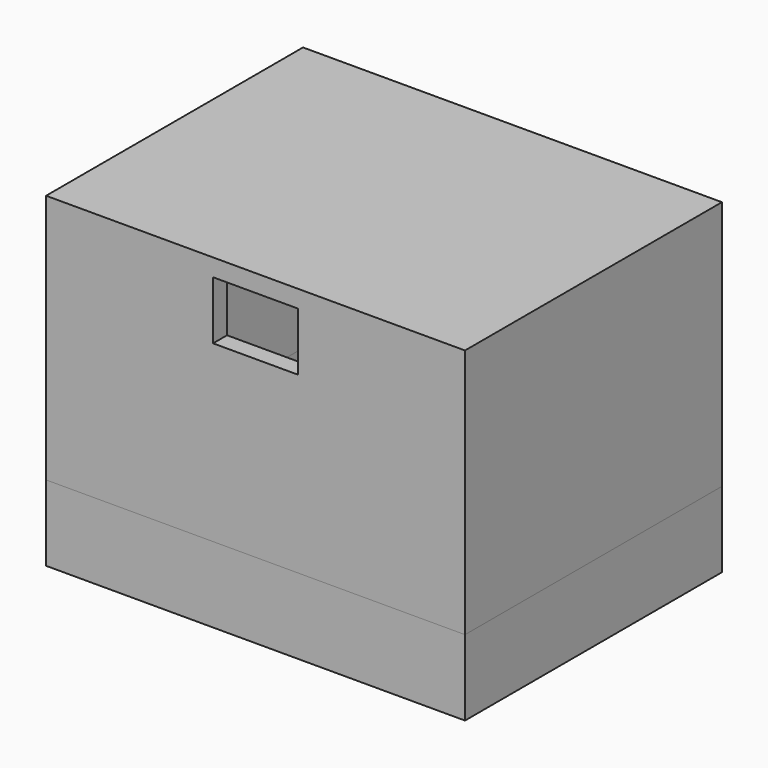
from build123d import *

# Parameters (mm, degrees)
F0_R      = 1.9
F1_DEPTH  = 1.9
F0_W      = 36
F0_H      = 27.6
F2_DEPTH  = 6.5
F0_R_2    = 0.7
F3_DEPTH  = 3.4
F4_DEPTH  = 6.5
F5_W      = 36
F5_H      = 27.6
F5_W_2    = 33
F5_H_2    = 24.6
F6_DEPTH  = 15
F8_DEPTH  = 5
F9_W      = 36
F9_H      = 27.6
F10_DEPTH = 1.5


with BuildPart() as f1:
    # F0 (on Top) → F1 (new body)
    with BuildSketch(Plane.XY):
        Polygon((16.5, -12.3), (16.5, 12.3), (-16.5, 12.3), (-16.5, -12.3), (-11.65, -12.3), (-11.65, 11.5), (11.65, 11.5), (11.65, -12.3), align=None)
        with Locations((-14.25, -0.45)):
            Circle(F0_R, mode=Mode.SUBTRACT)
        with Locations((14.5, -0.45)):
            Circle(F0_R, mode=Mode.SUBTRACT)
    extrude(amount=F1_DEPTH)

    # F0 (on Top) → F2 (join)
    with BuildSketch(Plane.XY):
        Rectangle(F0_W, F0_H)
        Polygon((-16.5, 12.3), (16.5, 12.3), (16.5, -12.3), (11.65, -12.3), (-11.65, -12.3), (-16.5, -12.3), align=None, mode=Mode.SUBTRACT)
    extrude(amount=F2_DEPTH)

    # F0 (on Top) → F3 (join)
    with BuildSketch(Plane.XY):
        with Locations((-14.25, -0.45)):
            Circle(F0_R)
        with Locations((-14.25, -0.45)):
            Circle(F0_R_2, mode=Mode.SUBTRACT)
        with Locations((14.5, -0.45)):
            Circle(F0_R)
        with Locations((14.5, -0.45)):
            Circle(F0_R_2, mode=Mode.SUBTRACT)
    extrude(amount=F3_DEPTH)

    # F0 (on Top) → F4 (join)
    with BuildSketch(Plane.XY):
        with Locations((-14.25, -0.45)):
            Circle(F0_R_2)
        with Locations((14.5, -0.45)):
            Circle(F0_R_2)
    extrude(amount=F4_DEPTH)


with BuildPart() as f6:
    # F5 (on face) → F6 (new body)
    with BuildSketch(Plane.XY.offset(6.5)):
        Rectangle(F5_W, F5_H)
        Rectangle(F5_W_2, F5_H_2, mode=Mode.SUBTRACT)
    extrude(amount=F6_DEPTH)

    # F7 (on face) → F8 (join)
    with BuildSketch(Plane.XY.offset(21.5)):
        Polygon((-16.5, -12.3), (-16.5, 12.3), (16.5, 12.3), (16.5, -12.3), (3.65, -12.3), (3.65, -13.8), (18, -13.8), (18, 13.8), (-18, 13.8), (-18, -13.8), (-3.65, -13.8), (-3.65, -12.3), align=None)
    extrude(amount=F8_DEPTH)

    # F9 (on face) → F10 (join)
    with BuildSketch(Plane.XY.offset(26.5)):
        Rectangle(F9_W, F9_H)
    extrude(amount=F10_DEPTH)


solid = Compound([f1.part, f6.part])
